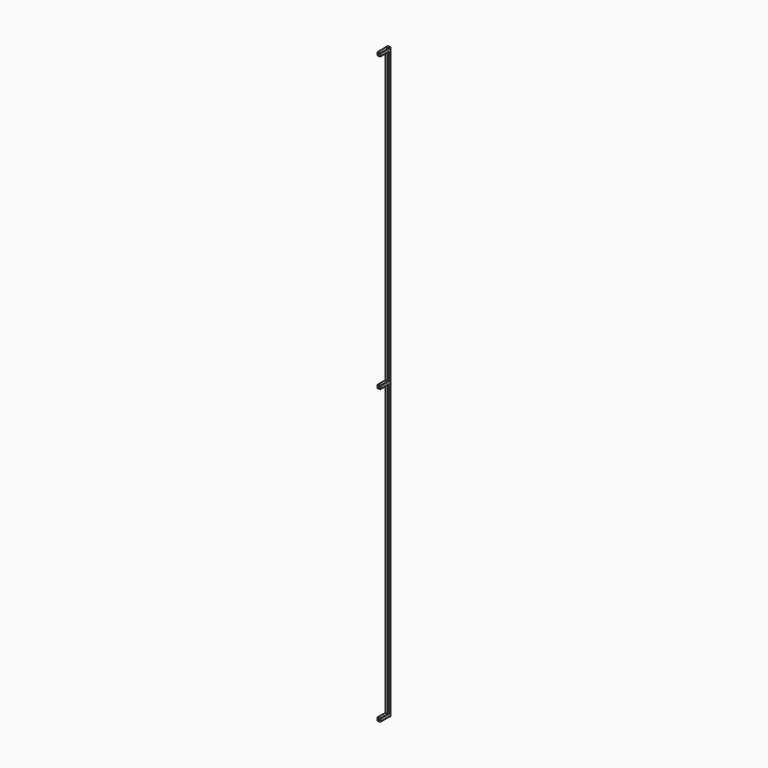
from build123d import *

# Parameters (mm, degrees)
F0_W     = 26.75
F0_H     = 26.75
F1_DEPTH = 6000
F2_W     = 26.75
F2_H     = 26.75
F3_DEPTH = 100


with BuildPart() as f1:
    # F0 (on Top) → F1 (new body)
    with BuildSketch(Plane.XY):
        with BuildLine():
            ThreePointArc((15.875, 13.375), (15.142767, 15.142767), (13.375, 15.875))
            Line((13.375, 15.875), (-13.375, 15.875))
            ThreePointArc((-13.375, 15.875), (-15.142767, 15.142767), (-15.875, 13.375))
            Line((-15.875, 13.375), (-15.875, -13.375))
            ThreePointArc((-15.875, -13.375), (-15.142767, -15.142767), (-13.375, -15.875))
            Line((-13.375, -15.875), (13.375, -15.875))
            ThreePointArc((13.375, -15.875), (15.142767, -15.142767), (15.875, -13.375))
            Line((15.875, -13.375), (15.875, 13.375))
        make_face()
        Rectangle(F0_W, F0_H, mode=Mode.SUBTRACT)
    extrude(amount=F1_DEPTH)


with BuildPart() as f3:
    # F2 (on face) → F3 (new body)
    with BuildSketch(Plane.XZ.offset(15.875)):
        with BuildLine():
            Line((-13.375, 2984.125), (13.375, 2984.125))
            ThreePointArc((13.375, 2984.125), (15.142767, 2984.857233), (15.875, 2986.625))
            Line((15.875, 2986.625), (15.875, 3013.375))
            ThreePointArc((15.875, 3013.375), (15.142767, 3015.142767), (13.375, 3015.875))
            Line((13.375, 3015.875), (-13.375, 3015.875))
            ThreePointArc((-13.375, 3015.875), (-15.142767, 3015.142767), (-15.875, 3013.375))
            Line((-15.875, 3013.375), (-15.875, 2986.625))
            ThreePointArc((-15.875, 2986.625), (-15.142767, 2984.857233), (-13.375, 2984.125))
        make_face()
        with Locations((0, 3000)):
            Rectangle(F2_W, F2_H, mode=Mode.SUBTRACT)
        with BuildLine():
            Line((-13.375, 5968.25), (13.375, 5968.25))
            ThreePointArc((13.375, 5968.25), (15.142767, 5968.982233), (15.875, 5970.75))
            Line((15.875, 5970.75), (15.875, 5997.5))
            ThreePointArc((15.875, 5997.5), (15.142767, 5999.267767), (13.375, 6000))
            Line((13.375, 6000), (-13.375, 6000))
            ThreePointArc((-13.375, 6000), (-15.142767, 5999.267767), (-15.875, 5997.5))
            Line((-15.875, 5997.5), (-15.875, 5970.75))
            ThreePointArc((-15.875, 5970.75), (-15.142767, 5968.982233), (-13.375, 5968.25))
        make_face()
        with Locations((0, 5984.125)):
            Rectangle(F2_W, F2_H, mode=Mode.SUBTRACT)
        with BuildLine():
            Line((-13.375, 0), (13.375, 0))
            ThreePointArc((13.375, 0), (15.142767, 0.732233), (15.875, 2.5))
            Line((15.875, 2.5), (15.875, 29.25))
            ThreePointArc((15.875, 29.25), (15.142767, 31.017767), (13.375, 31.75))
            Line((13.375, 31.75), (-13.375, 31.75))
            ThreePointArc((-13.375, 31.75), (-15.142767, 31.017767), (-15.875, 29.25))
            Line((-15.875, 29.25), (-15.875, 2.5))
            ThreePointArc((-15.875, 2.5), (-15.142767, 0.732233), (-13.375, 0))
        make_face()
        with Locations((0, 15.875)):
            Rectangle(F2_W, F2_H, mode=Mode.SUBTRACT)
    extrude(amount=F3_DEPTH)


solid = Compound([f1.part, f3.part])
